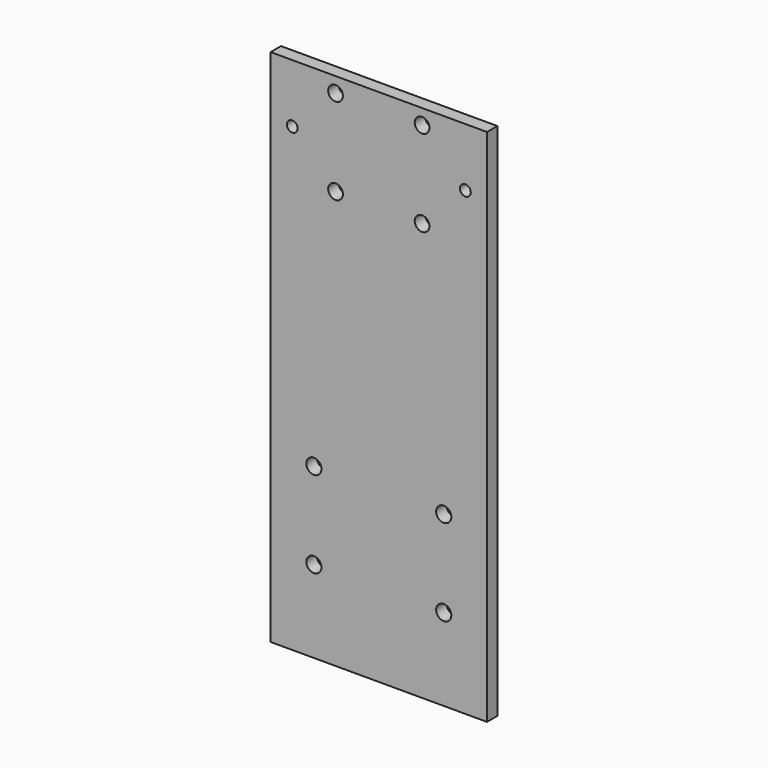
from build123d import *

# Parameters (mm, degrees)
F0_W     = 50
F0_H     = 150
F1_DEPTH = 3
F2_D     = 3.4
F3_D     = 2.5
F4_D     = 3.5
F5_DEPTH = 30


with BuildPart() as f1:
    # F0 (on Front) → F1 (new body)
    with BuildSketch(Plane.XZ):
        with Locations((-5.4991092533, 48.5944904387)):
            Rectangle(F0_W, F0_H)
    extrude(amount=F1_DEPTH)

    # F2 (through all)
    with Locations(Plane(origin=(0, 0, 0), x_dir=(1, 0, 0), z_dir=(0, 1, 0))):
        with Locations((4.5008907467, -120.0944904387), (-15.4991092533, -120.0944904387), (-15.4991092533, -100.0944904387), (4.5008907467, -100.0944904387)):
            Hole(F2_D / 2)

    # F3 (through all)
    with Locations(Plane(origin=(0, 0, 0), x_dir=(1, 0, 0), z_dir=(0, 1, 0))):
        with Locations((14.5008907467, -110.0944904387), (-25.4991092533, -110.0944904387)):
            Hole(F3_D / 2)

    # F4 (through all)
    with Locations(Plane(origin=(0, 0, 0), x_dir=(1, 0, 0), z_dir=(0, 1, 0))):
        with Locations((-20.4991092533, -42.5944904387), (-20.4991092533, -22.5944904387), (9.5008907467, -22.5944904387), (9.5008907467, -42.5944904387)):
            Hole(F4_D / 2)

    # F5 (cut): a face of the model
    f5_faces = [f1.faces().sort_by_distance(p)[0] for p in [
        (-5.4991092533, -1.5, -26.4055095613),
    ]]
    extrude(f5_faces, amount=-F5_DEPTH, mode=Mode.SUBTRACT)


solid = f1.part
